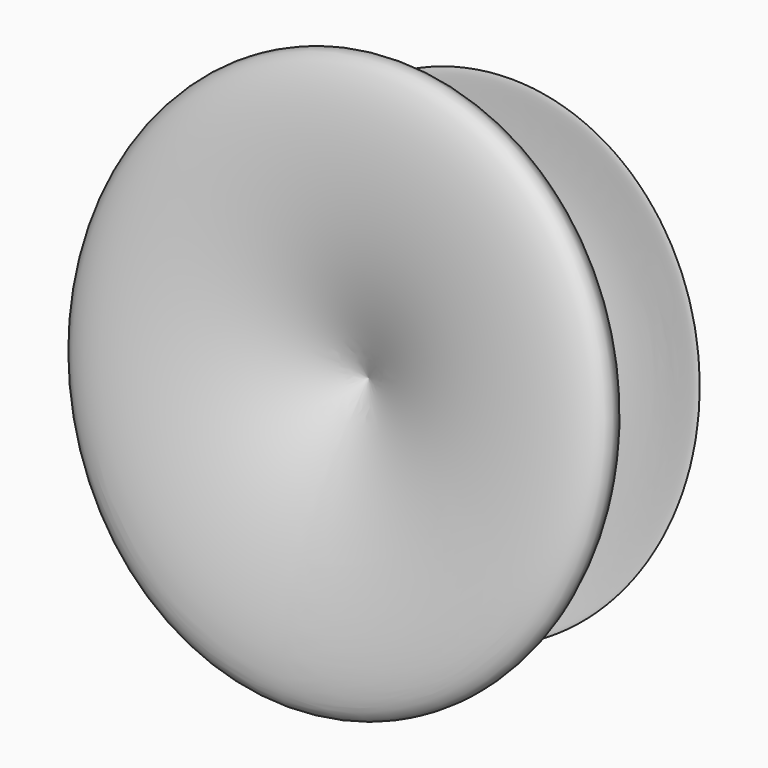
from build123d import *


with BuildPart() as f1:
    # F0 (on Right) → F1 (revolve)
    with BuildSketch(Plane.YZ):
        with BuildLine():
            Line((83.9004963636, 0), (-66.8773204088, 37.6414209604))
            add(Edge.make_bspline(
                [(-66.8773204088, 37.6414209604), (-86.1032846332, 15.162245312), (-123.9918387869, -29.1374035351), (-167.2000238215, -188.9761165696), (-23.7055412426, -60.6377037021), (-109.7825427059, 3.9423283474), (41.5699909033, -23.5899422966), (-60.3331642976, -205.6123596624), (31.5190300017, -74.6724228718), (83.9004963636, 0)],
                knots=[0, 0, 0, 0, 0.1442658862, 0.2843043802, 0.4357736471, 0.5380218238, 0.6665688449, 0.8098508917, 1, 1, 1, 1], degree=3))
        make_face()
    revolve(axis=Axis((0, 8.5115879774, 18.8207104802), (0, 0.9702227428, -0.2422144283)))


solid = f1.part
